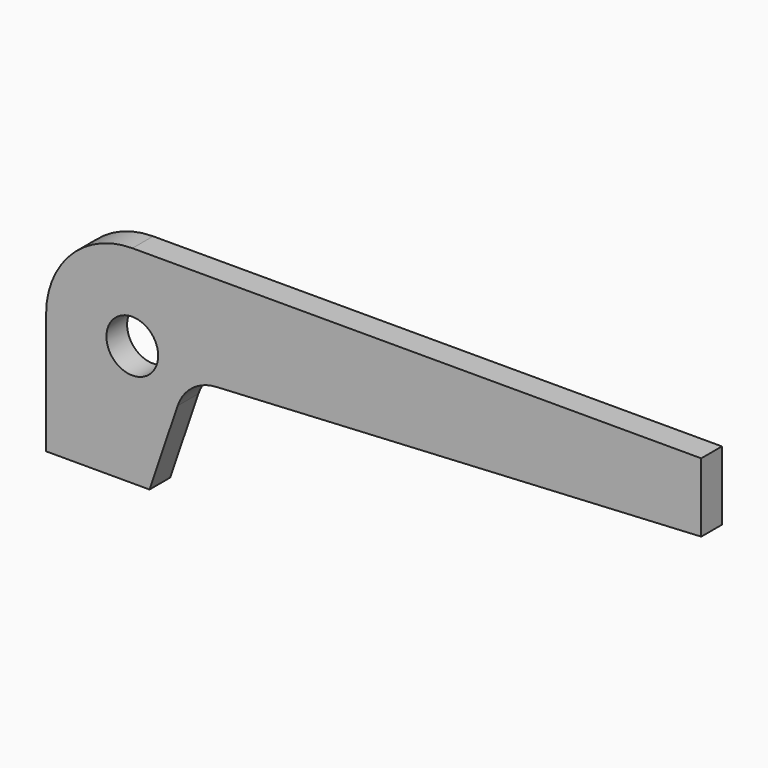
from build123d import *

# Parameters (mm, degrees)
F1_DEPTH = 2.38125
F2_R     = 2.38125
F3_DEPTH = 2.38225


with BuildPart() as f1:
    # F0 (on Front) → F1 (new body)
    with BuildSketch(Plane.XZ):
        with BuildLine():
            Line((66.909325, 27.498861), (14.534525, 27.498861))
            ThreePointArc((14.534525, 27.498861), (8.912885, 25.170302), (6.584325, 19.548661))
            Line((6.584325, 19.548661), (6.584325, 8.448861))
            Line((6.584325, 8.448861), (16.109325, 8.448861))
            Line((16.109325, 8.448861), (18.69467, 16.075104))
            ThreePointArc((18.69467, 16.075104), (20.058081, 17.966739), (22.247746, 18.768327))
            Line((22.247746, 18.768327), (66.909325, 21.148861))
            Line((66.909325, 21.148861), (66.909325, 27.498861))
        make_face()
    extrude(amount=F1_DEPTH)

    # F2 (on face) → F3 (cut, through all)
    with BuildSketch(Plane.XZ.offset(2.38125)):
        with Locations((14.521825, 19.561361)):
            Circle(F2_R)
    extrude(amount=-F3_DEPTH, mode=Mode.SUBTRACT)


solid = f1.part
